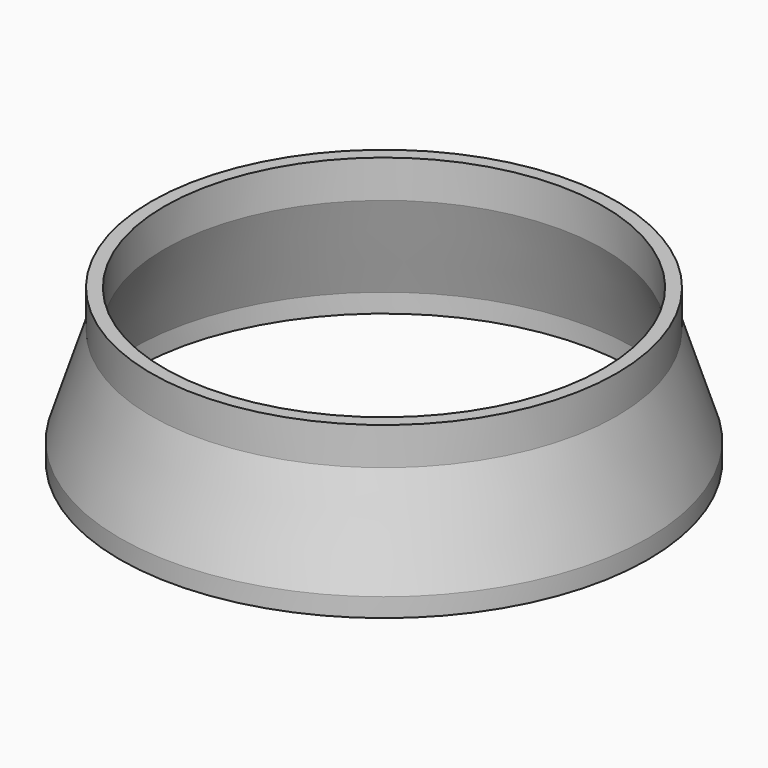
from build123d import *

# Parameters (mm, degrees)
F0_W   = 2.101484
F0_H   = 6
F0_H_2 = 3


with BuildPart() as f1:
    # F0 (on Front) → F1 (revolve)
    with BuildSketch(Plane.XZ):
        with Locations((36.050742, 18.5)):
            Rectangle(F0_W, F0_H)
        Polygon((35, 15.5), (40, 0), (42.101484, 0), (37.101484, 15.5), align=None)
        with Locations((41.050742, -1.5)):
            Rectangle(F0_W, F0_H_2)
    revolve(axis=Axis((0, 0, 7.75), (0, 0, 1)))


solid = f1.part
